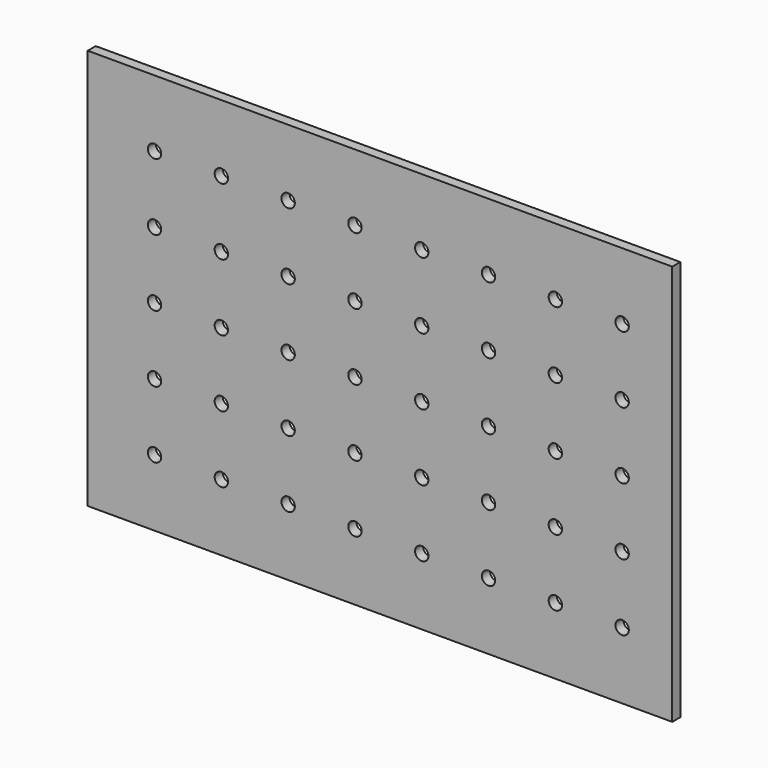
from build123d import *

# Parameters (mm, degrees)
F0_W     = 875
F0_H     = 600
F1_DEPTH = 15
F2_R     = 10
F3_DEPTH = 15.001


with BuildPart() as f1:
    # F0 (on Front) → F1 (new body)
    with BuildSketch(Plane.XZ):
        Rectangle(F0_W, F0_H)
    extrude(amount=F1_DEPTH)

    # F2 (on face) → F3 (cut, through all)
    with BuildSketch(Plane(origin=(0, 0, 0), x_dir=(-1, 0, 0), z_dir=(0, 1, 0))):
        with Locations((337.5, -200)):
            Circle(F2_R)
        with Locations((337.5, -100)):
            Circle(F2_R)
        with Locations((337.5, 0)):
            Circle(F2_R)
        with Locations((337.5, 100)):
            Circle(F2_R)
        with Locations((337.5, 200)):
            Circle(F2_R)
        with Locations((237.5, 200)):
            Circle(F2_R)
        with Locations((237.5, 100)):
            Circle(F2_R)
        with Locations((237.5, 0)):
            Circle(F2_R)
        with Locations((237.5, -100)):
            Circle(F2_R)
        with Locations((237.5, -200)):
            Circle(F2_R)
        with Locations((137.5, -200)):
            Circle(F2_R)
        with Locations((137.5, -100)):
            Circle(F2_R)
        with Locations((137.5, 0)):
            Circle(F2_R)
        with Locations((137.5, 100)):
            Circle(F2_R)
        with Locations((137.5, 200)):
            Circle(F2_R)
        with Locations((37.5, 200)):
            Circle(F2_R)
        with Locations((-62.5, 200)):
            Circle(F2_R)
        with Locations((-162.5, 200)):
            Circle(F2_R)
        with Locations((-262.5, 200)):
            Circle(F2_R)
        with Locations((-62.5, 100)):
            Circle(F2_R)
        with Locations((37.5, 100)):
            Circle(F2_R)
        with Locations((37.5, 0)):
            Circle(F2_R)
        with Locations((37.5, -100)):
            Circle(F2_R)
        with Locations((37.5, -200)):
            Circle(F2_R)
        with Locations((-62.5, -200)):
            Circle(F2_R)
        with Locations((-62.5, -100)):
            Circle(F2_R)
        with Locations((-62.5, 0)):
            Circle(F2_R)
        with Locations((-162.5, 0)):
            Circle(F2_R)
        with Locations((-162.5, -100)):
            Circle(F2_R)
        with Locations((-162.5, -200)):
            Circle(F2_R)
        with Locations((-262.5, 100)):
            Circle(F2_R)
        with Locations((-362.5, 200)):
            Circle(F2_R)
        with Locations((-362.5, 100)):
            Circle(F2_R)
        with Locations((-162.5, 100)):
            Circle(F2_R)
        with Locations((-262.5, 0)):
            Circle(F2_R)
        with Locations((-362.5, 0)):
            Circle(F2_R)
        with Locations((-262.5, -100)):
            Circle(F2_R)
        with Locations((-262.5, -200)):
            Circle(F2_R)
        with Locations((-362.5, -200)):
            Circle(F2_R)
        with Locations((-362.5, -100)):
            Circle(F2_R)
    extrude(amount=-F3_DEPTH, mode=Mode.SUBTRACT)


solid = f1.part
